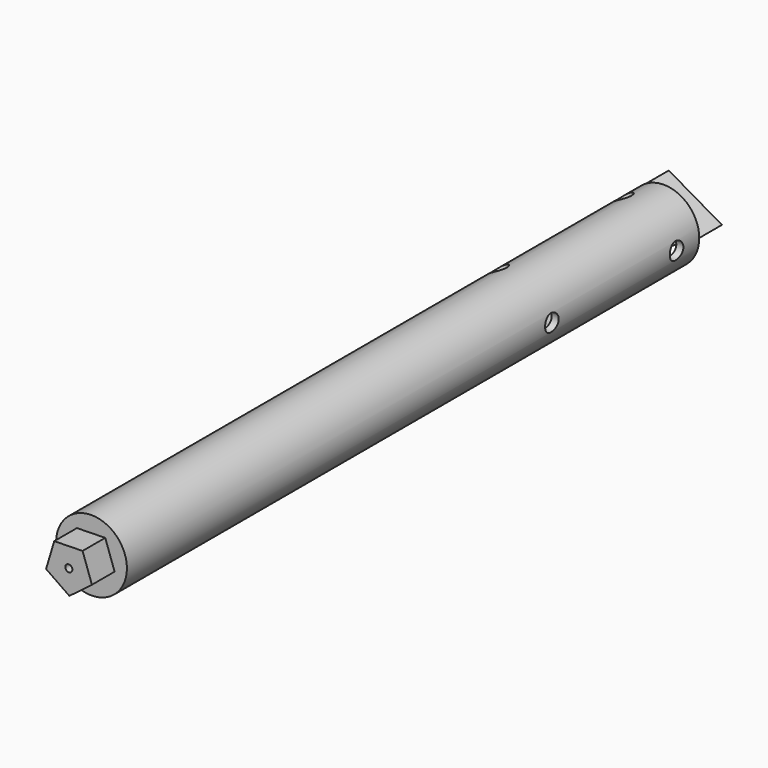
from build123d import *

# Parameters (mm, degrees)
F0_R      = 25
F0_R_2    = 20
F1_DEPTH  = 500
F2_R      = 25
F3_DEPTH  = 5
F5_DEPTH  = 20
F7_D      = 5
F10_D     = 12
F10_DEPTH = 6
F10_START = 0.7306779
F10_TIP   = 3.6051637142
F12_DEPTH = 20
F17_D     = 12
F17_DEPTH = 6
F17_START = 0.7306779
F17_TIP   = 3.6051637142
F19_D     = 12
F19_DEPTH = 6
F19_START = 0.7306779
F19_TIP   = 3.6051637142


with BuildPart() as f1:
    # F0 (on Front) → F1 (new body)
    with BuildSketch(Plane.XZ):
        Circle(F0_R)
        Circle(F0_R_2, mode=Mode.SUBTRACT)
    extrude(amount=F1_DEPTH)

    # F2 (on face) → F3 (join)
    with BuildSketch(Plane.XZ.offset(500)):
        Circle(F2_R)
    extrude(amount=F3_DEPTH)

    # F4 (on face) → F5 (join)
    with BuildSketch(Plane.XZ.offset(505)):
        Polygon((-16.0628025015, -5.6190539991), (0.380358971, -17.013016167), (16.2978772735, -4.8955682433), (9.6922831285, 13.9873885984), (-10.3077168715, 13.540249811), align=None)
    extrude(amount=F5_DEPTH)

    # F7 (through all)
    with Locations(Plane.XZ.offset(525)):
        with Locations((0, 0)):
            Hole(F7_D / 2)

    # F10
    # its depths count from where the whole tool has entered the part; down to there all is cleared
    with Locations(Plane.YZ.offset(25).offset(-F10_START)):
        with Locations((-20, 0), (-130, 0)):
            Hole(F10_D / 2, depth=F10_DEPTH)
            with Locations((0, 0, -(F10_DEPTH + F10_TIP / 2))):  # 118° drill point
                Cone(0, F10_D / 2, F10_TIP, mode=Mode.SUBTRACT)

    # F11 (on face) → F12 (join)
    with BuildSketch(Plane(origin=(0, 0, 0), x_dir=(-1, 0, 0), z_dir=(0, 1, 0))):
        Polygon((12.5, -21.6506350946), (12.5, 21.6506350946), (-25, 0), align=None)
    extrude(amount=F12_DEPTH)

    # F17
    # its depths count from where the whole tool has entered the part; down to there all is cleared
    with Locations(Plane(origin=(-12.5, 0, -21.6506350946), x_dir=(0.8660254038, 0, -0.5), z_dir=(-0.5, 0, -0.8660254038)).offset(-F17_START)):
        with Locations((0, 20), (0, 130)):
            Hole(F17_D / 2, depth=F17_DEPTH)
            with Locations((0, 0, -(F17_DEPTH + F17_TIP / 2))):  # 118° drill point
                Cone(0, F17_D / 2, F17_TIP, mode=Mode.SUBTRACT)

    # F19
    # its depths count from where the whole tool has entered the part; down to there all is cleared
    with Locations(Plane(origin=(-12.5, 0, 21.6506350946), x_dir=(0.8660254038, 0, 0.5), z_dir=(-0.5, 0, 0.8660254038)).offset(-F19_START)):
        with Locations((0, -20), (0, -130)):
            Hole(F19_D / 2, depth=F19_DEPTH)
            with Locations((0, 0, -(F19_DEPTH + F19_TIP / 2))):  # 118° drill point
                Cone(0, F19_D / 2, F19_TIP, mode=Mode.SUBTRACT)


solid = f1.part
